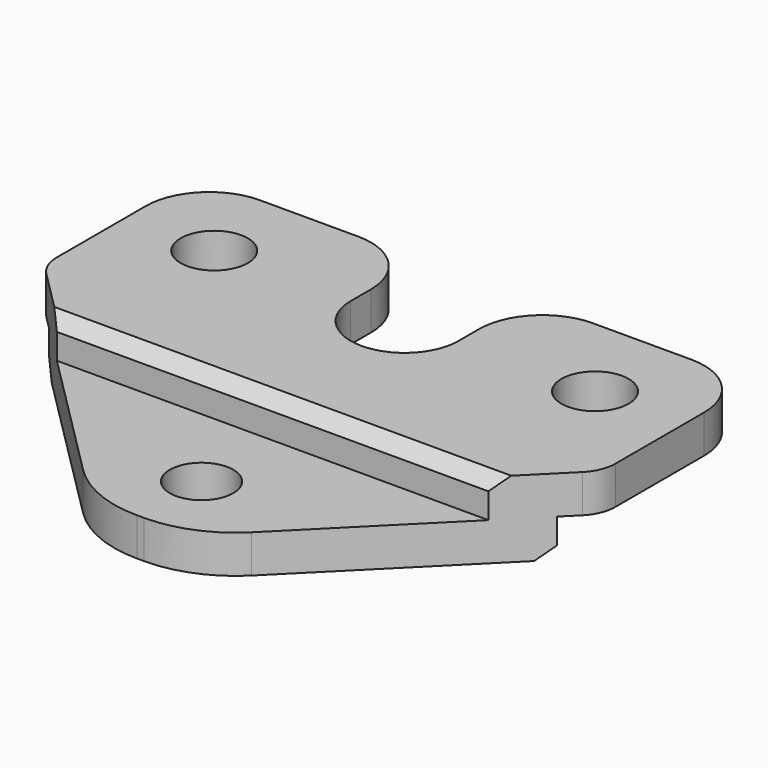
from build123d import *

# Parameters (mm, degrees)
SKETCH_R        = 2.65
PAD_DEPTH       = 3
PAD001_DEPTH    = 3
SKETCH002_R     = 2.5
PAD002_DEPTH    = 3
FILLET_R        = 9
FILLET001_R     = 5
FILLET002_R     = 5
CHAMFER_SIZE    = 1
CHAMFER001_SIZE = 1
FILLET003_R     = 3


with BuildPart() as part:
    # Sketch → Pad (new body)
    with BuildSketch(Plane.XY):
        with BuildLine():
            ThreePointArc((-4.25, 0), (0, -4.25), (4.25, 0))
            Line((4.25, 7), (4.25, 0))
            Line((22, 7), (4.25, 7))
            Line((22, -8), (22, 7))
            Line((22, -8), (17, -13))
            Line((-17, -13), (17, -13))
            Line((-22, -8), (-17, -13))
            Line((-22, 7), (-22, -8))
            Line((-4.25, 7), (-22, 7))
            Line((-4.25, 0), (-4.25, 7))
        make_face()
        with Locations((-15, 0)):
            Circle(SKETCH_R, mode=Mode.SUBTRACT)
        with Locations((15, 0)):
            Circle(SKETCH_R, mode=Mode.SUBTRACT)
    extrude(amount=PAD_DEPTH)

    # Sketch001 → Pad001 (join)
    with BuildSketch(Plane.XY):
        Polygon((-17, -13), (17, -13), (20, -10), (-20, -10), align=None)
    extrude(amount=-PAD001_DEPTH)

    # Sketch002 → Pad002 (join)
    with BuildSketch(Plane.XY):
        Polygon((-17, -13), (17, -13), (4, -26), (-4, -26), align=None)
        with Locations((0, -20)):
            Circle(SKETCH002_R, mode=Mode.SUBTRACT)
    extrude(amount=-PAD002_DEPTH)

    # Fillet
    fillet_edges = [part.edges().sort_by_distance(p)[0] for p in [
        (4, -26, -1.5),
        (-4, -26, -1.5),
    ]]
    fillet(fillet_edges, radius=FILLET_R)

    # Fillet001
    fillet001_edges = [part.edges().sort_by_distance(p)[0] for p in [
        (22, 7, 1.5),
        (-22, 7, 1.5),
    ]]
    fillet(fillet001_edges, radius=FILLET001_R)

    # Fillet002
    fillet002_edges = [part.edges().sort_by_distance(p)[0] for p in [
        (-4.25, 7, 1.5),
        (4.25, 7, 1.5),
    ]]
    fillet(fillet002_edges, radius=FILLET002_R)

    # Chamfer
    chamfer_edges = [part.edges().sort_by_distance(p)[0] for p in [
        (0, -13, 3),
    ]]
    chamfer(chamfer_edges, length=CHAMFER_SIZE)

    # Chamfer001
    chamfer001_edges = [part.edges().sort_by_distance(p)[0] for p in [
        (0, -10, -3),
    ]]
    chamfer(chamfer001_edges, length=CHAMFER001_SIZE)

    # Fillet003
    fillet003_edges = [part.edges().sort_by_distance(p)[0] for p in [
        (22, -8, 1.5),
        (-22, -8, 1.5),
    ]]
    fillet(fillet003_edges, radius=FILLET003_R)


solid = part.part
